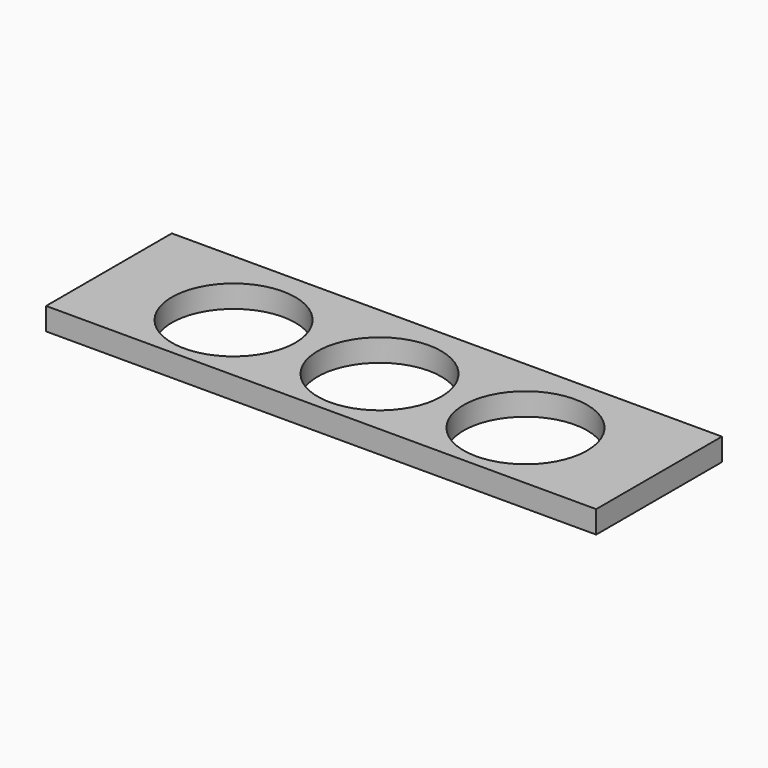
from build123d import *

# Parameters (mm, degrees)
F0_W     = 311.15
F0_H     = 88.9
F0_R     = 34.925
F1_DEPTH = 12.7


with BuildPart() as f1:
    # F0 (on Top) → F1 (new body)
    with BuildSketch(Plane.XY):
        with Locations((0, -49.389448)):
            Rectangle(F0_W, F0_H)
        with Locations((-82.55, -52.564448)):
            Circle(F0_R, mode=Mode.SUBTRACT)
        with Locations((0, -52.564448)):
            Circle(F0_R, mode=Mode.SUBTRACT)
        with Locations((82.55, -52.564448)):
            Circle(F0_R, mode=Mode.SUBTRACT)
    extrude(amount=F1_DEPTH)


solid = f1.part
